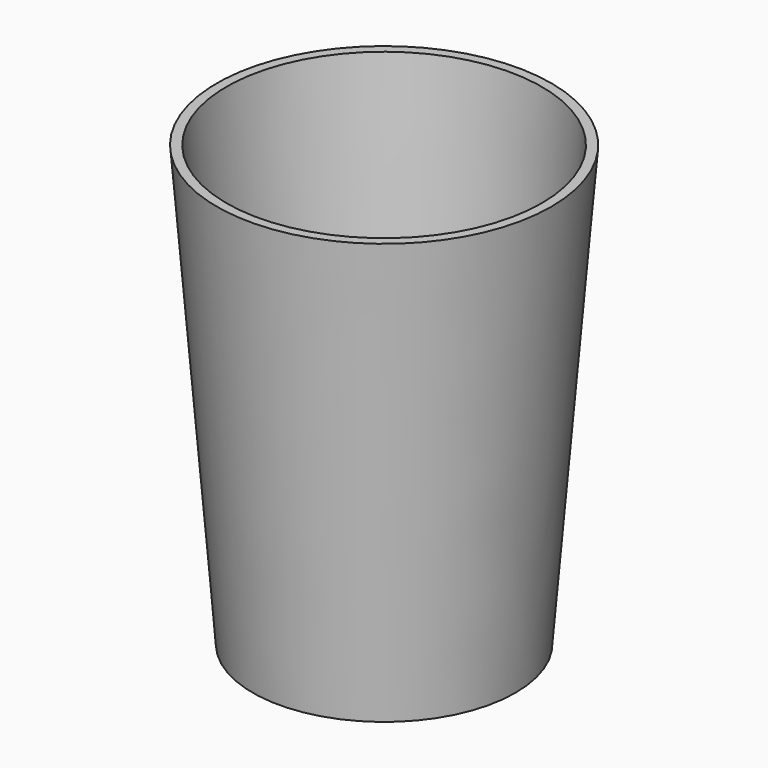
from build123d import *


with BuildPart() as cone006:
    # Cone006 → Cone006 (revolve)
    with BuildSketch(Plane.XZ):
        Polygon((0, 0), (25.5, 0), (33, 92), (0, 92), align=None)
    revolve(axis=Axis((0, 0, 0), (0, 0, 1)))


with BuildPart() as cut006:
    # Cone005 → Cone005 (revolve)
    with BuildSketch(Plane.XZ):
        Polygon((0, 0), (27.5, 0), (35, 92), (0, 92), align=None)
    revolve(axis=Axis((0, 0, 0), (0, 0, 1)))

    # Cut006: cut Cone006
    add(cone006.part, mode=Mode.SUBTRACT)


solid = cut006.part
